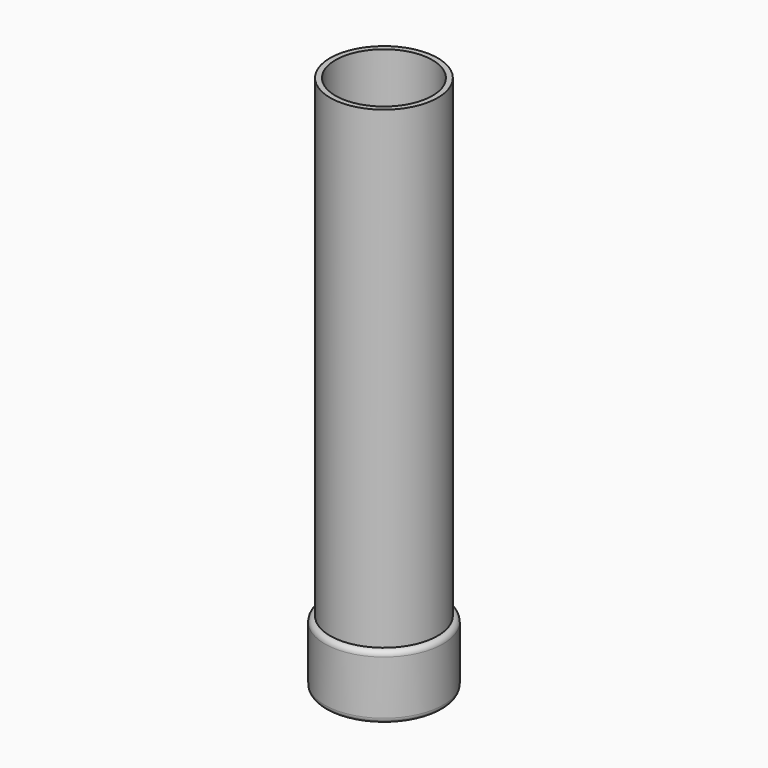
from build123d import *


with BuildPart() as f1:
    # F0 (on Front) → F1 (revolve)
    with BuildSketch(Plane.XZ):
        with BuildLine():
            Line((-50, 0), (-50, 60))
            ThreePointArc((-50, 60), (-53.5355339059, 58.5355339059), (-55, 55))
            Line((-55, 55), (-55, 5))
            ThreePointArc((-55, 5), (-53.5355339059, 1.4644660941), (-50, 0))
        make_face()
        Polygon((-45, 5), (-45, 500), (-50, 500), (-50, 60), (-50, 0), (0, 0), (0, 5), align=None)
    revolve(axis=Axis((0, 0, 250), (0, 0, -1)))


solid = f1.part
